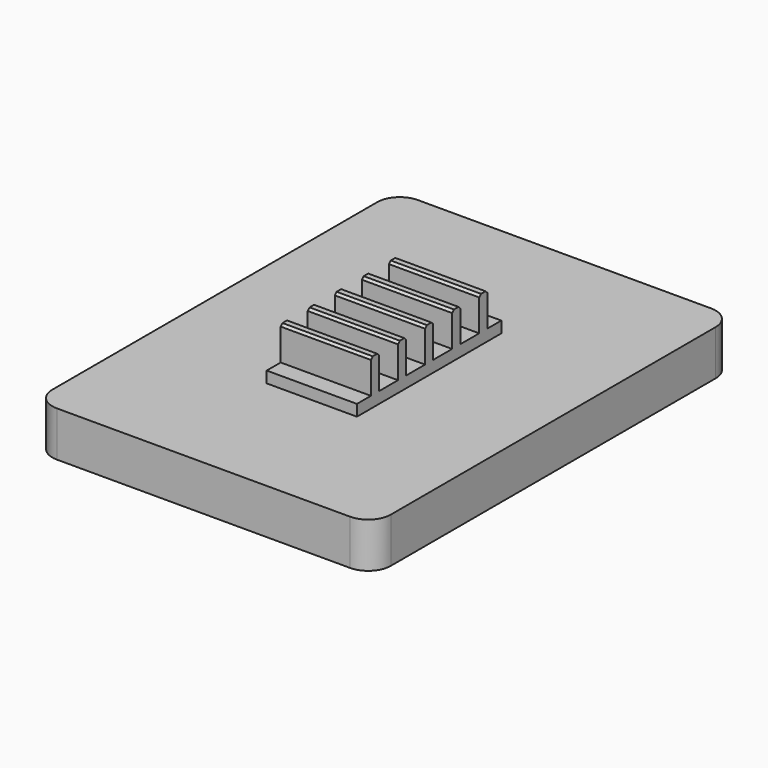
from build123d import *

# Parameters (mm, degrees)
F0_W     = 15
F0_H     = 20
F1_DEPTH = 2
F0_W_2   = 4
F0_H_2   = 0.775
F0_H_3   = 1.05
F2_DEPTH = 2.5
F0_H_4   = 0.45
F3_DEPTH = 4
F4_SIZE  = 0.1
F5_R     = 1


with BuildPart() as f1:
    # F0 (on Top) → F1 (new body)
    with BuildSketch(Plane.XY):
        Rectangle(F0_W, F0_H)
        Polygon((2, -3.225), (2, -4), (-2, -4), (-2, -3.225), (-2, -2.775), (-2, -1.725), (-2, -1.275), (-2, -0.225), (-2, 0), (-2, 0.107463), (-2, 0.225), (-2, 1.275), (-2, 1.725), (-2, 2.775), (-2, 3.225), (-2, 4), (2, 4), (2, 3.225), (2, 2.775), (2, 1.725), (2, 1.275), (2, 0.225), (2, -0.225), (2, -1.275), (2, -1.725), (2, -2.775), align=None, mode=Mode.SUBTRACT)
    extrude(amount=F1_DEPTH)

    # F0 (on Top) → F2 (join)
    with BuildSketch(Plane.XY):
        with Locations((0, 3.6125)):
            Rectangle(F0_W_2, F0_H_2)
        with Locations((0, 0.75)):
            Rectangle(F0_W_2, F0_H_3)
        with Locations((0, -0.75)):
            Rectangle(F0_W_2, F0_H_3)
        with Locations((0, -3.6125)):
            Rectangle(F0_W_2, F0_H_2)
        with Locations((0, 2.25)):
            Rectangle(F0_W_2, F0_H_3)
        with Locations((0, -2.25)):
            Rectangle(F0_W_2, F0_H_3)
    extrude(amount=F2_DEPTH)

    # F0 (on Top) → F3 (join)
    with BuildSketch(Plane.XY):
        with Locations((0, 1.5)):
            Rectangle(F0_W_2, F0_H_4)
        Polygon((-2, -0.225), (2, -0.225), (2, 0.225), (-2, 0.225), (-2, 0.107463), (-2, 0), align=None)
        with Locations((0, -1.5)):
            Rectangle(F0_W_2, F0_H_4)
        with Locations((0, 3)):
            Rectangle(F0_W_2, F0_H_4)
        with Locations((0, -3)):
            Rectangle(F0_W_2, F0_H_4)
    extrude(amount=F3_DEPTH)

    # F4
    f4_edges = [f1.edges().sort_by_distance(p)[0] for p in [
        (0, -1.725, 4),
        (0, -1.275, 4),
        (0, -0.225, 4),
        (0, 0.225, 4),
        (0, 1.275, 4),
        (0, 1.725, 4),
        (0, 2.775, 4),
        (0, 3.225, 4),
        (0, -3.225, 4),
        (0, -2.775, 4),
    ]]
    chamfer(f4_edges, length=F4_SIZE)

    # F5
    f5_edges = [f1.edges().sort_by_distance(p)[0] for p in [
        (7.5, 10, 1),
        (7.5, -10, 1),
        (-7.5, -10, 1),
        (-7.5, 10, 1),
    ]]
    fillet(f5_edges, radius=F5_R)


solid = f1.part
